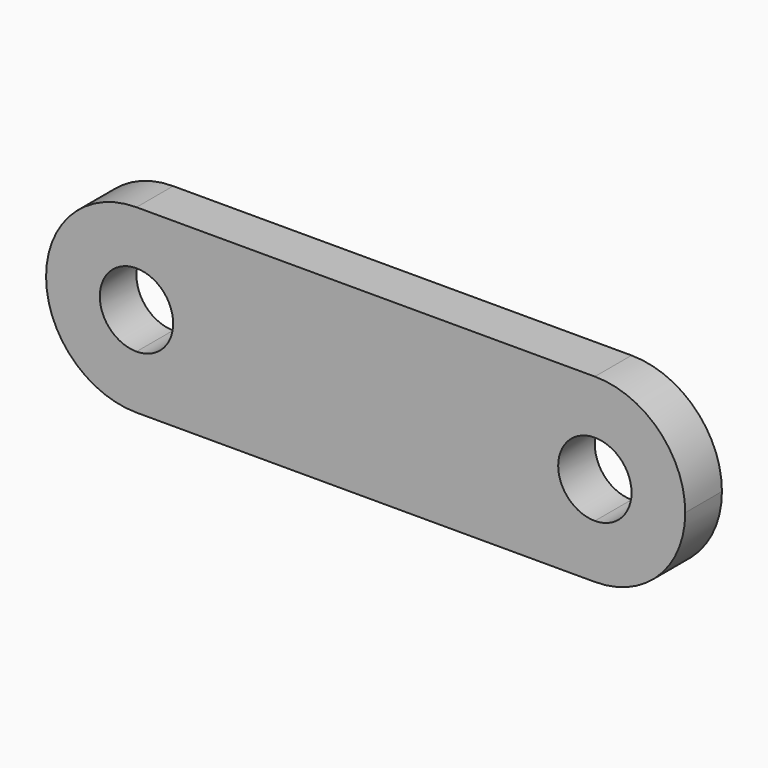
from build123d import *

# Parameters (mm, degrees)
F1_DEPTH = 127


with BuildPart() as f1:
    # F0 (on Front) → F1 (new body)
    with BuildSketch(Plane.XZ):
        with BuildLine():
            Line((635, 250.444), (-635, 250.444))
            ThreePointArc((-635, 250.444), (-457.909349, 177.090651), (-384.556, 0))
            ThreePointArc((-384.556, 0), (-457.909349, -177.090651), (-635, -250.444))
            Line((-635, -250.444), (635, -250.444))
            ThreePointArc((635, -250.444), (384.556, 0), (635, 250.444))
        make_face()
        with BuildLine():
            Line((-635, 101.6), (-635, 250.444))
            ThreePointArc((-635, 250.444), (-885.444, 0), (-635, -250.444))
            Line((-635, -250.444), (-635, -101.6))
            ThreePointArc((-635, -101.6), (-736.6, 0), (-635, 101.6))
        make_face()
        with BuildLine():
            ThreePointArc((-384.556, 0), (-457.909349, 177.090651), (-635, 250.444))
            Line((-635, 250.444), (-635, 101.6))
            ThreePointArc((-635, 101.6), (-563.157951, 71.842049), (-533.4, 0))
            ThreePointArc((-533.4, 0), (-563.157951, -71.842049), (-635, -101.6))
            Line((-635, -101.6), (-635, -250.444))
            ThreePointArc((-635, -250.444), (-457.909349, -177.090651), (-384.556, 0))
        make_face()
        with BuildLine():
            Line((635, 101.6), (635, 250.444))
            ThreePointArc((635, 250.444), (384.556, 0), (635, -250.444))
            Line((635, -250.444), (635, -101.6))
            ThreePointArc((635, -101.6), (533.4, 0), (635, 101.6))
        make_face()
        with BuildLine():
            ThreePointArc((885.444, 0), (812.090651, 177.090651), (635, 250.444))
            Line((635, 250.444), (635, 101.6))
            ThreePointArc((635, 101.6), (706.842049, 71.842049), (736.6, 0))
            ThreePointArc((736.6, 0), (706.842049, -71.842049), (635, -101.6))
            Line((635, -101.6), (635, -250.444))
            ThreePointArc((635, -250.444), (812.090651, -177.090651), (885.444, 0))
        make_face()
    extrude(amount=F1_DEPTH)


solid = f1.part
